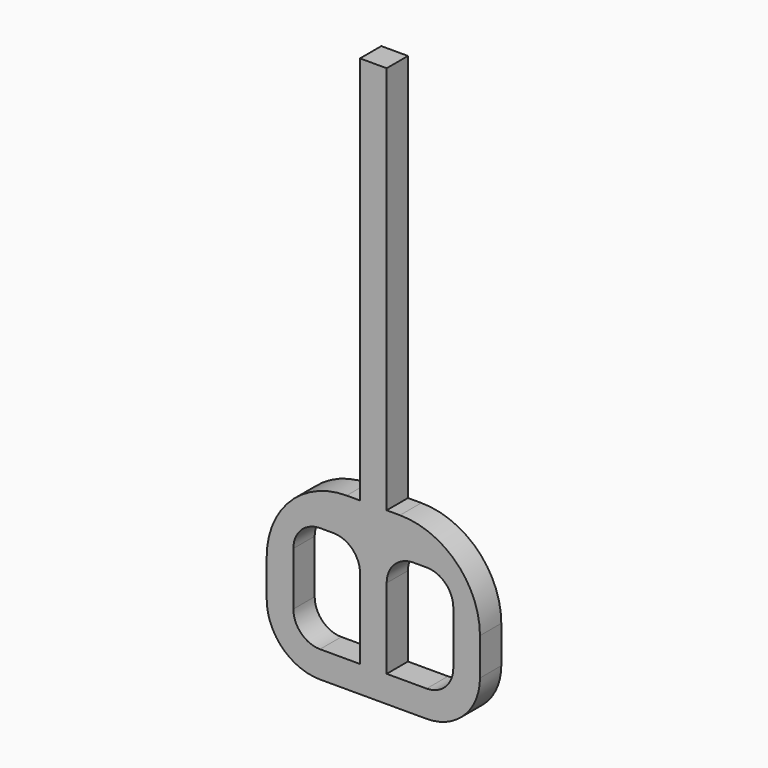
from build123d import *

# Parameters (mm, degrees)
F1_DEPTH      = 1000
F2_W          = 50
F2_H          = 200
F3_DEPTH      = 25
F3_DEPTH_BACK = 25
F4_W          = 175
F4_H          = 70
F5_DEPTH      = 25
F5_DEPTH_BACK = 25
F6_R          = 150
F7_R          = 100
F8_R          = 50


with BuildPart() as f1:
    # F0 (on Top) → F1 (new body)
    with BuildSketch(Plane.XY):
        Polygon((-25, 0), (-25, -25), (25, -25), (25, 25), (-25, 25), align=None)
    extrude(amount=F1_DEPTH)

    # F2 (on Front) → F3 (join, two sides)
    with BuildSketch(Plane.XZ) as f3_sk:
        Polygon((0, -50), (0, 0), (-150, 0), (-200, 0), (-200, -50), align=None)
        Polygon((150, 0), (0, 0), (0, -50), (200, -50), (200, 0), align=None)
        with Locations((-175, 100)):
            Rectangle(F2_W, F2_H)
        with Locations((175, 100)):
            Rectangle(F2_W, F2_H)
    extrude(amount=F3_DEPTH)
    extrude(f3_sk.sketch, amount=-F3_DEPTH_BACK)

    # F4 (on Front) → F5 (join, two sides)
    with BuildSketch(Plane.XZ) as f5_sk:
        with Locations((112.5, 235)):
            Rectangle(F4_W, F4_H)
        with Locations((-112.5, 235)):
            Rectangle(F4_W, F4_H)
    extrude(amount=F5_DEPTH)
    extrude(f5_sk.sketch, amount=-F5_DEPTH_BACK)

    # F6
    f6_edges = [f1.edges().sort_by_distance(p)[0] for p in [
        (200, 0, 270),
        (-200, 0, 270),
    ]]
    fillet(f6_edges, radius=F6_R)

    # F7
    f7_edges = [f1.edges().sort_by_distance(p)[0] for p in [
        (-200, 0, -50),
        (200, 0, -50),
    ]]
    fillet(f7_edges, radius=F7_R)

    # F8
    f8_edges = [f1.edges().sort_by_distance(p)[0] for p in [
        (-25, 0, 200),
        (25, 0, 200),
        (-150, 0, 200),
        (150, 0, 200),
        (-150, 0, 0),
        (150, 0, 0),
    ]]
    fillet(f8_edges, radius=F8_R)


solid = f1.part
